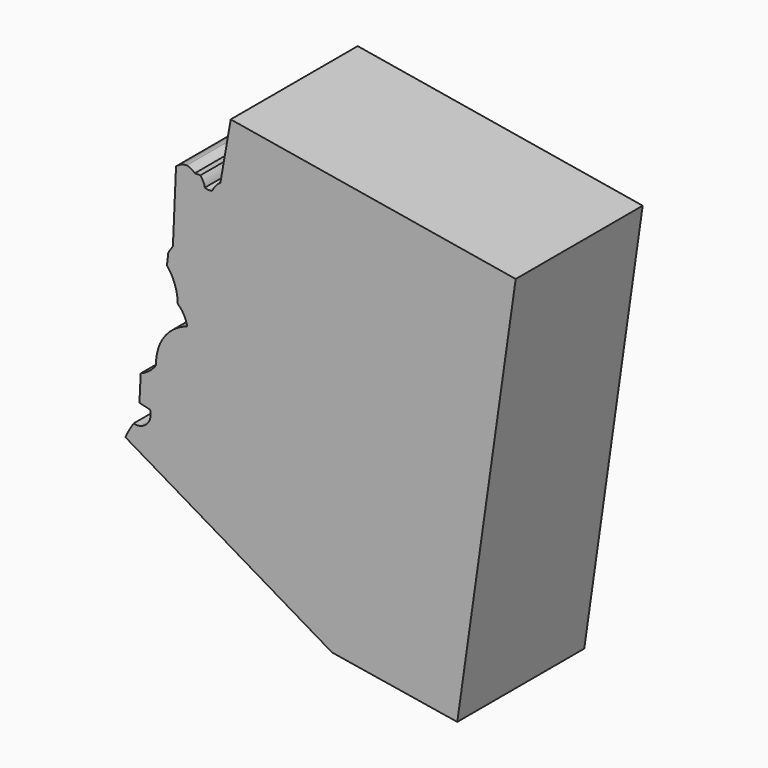
from build123d import *

# Parameters (mm, degrees)
F1_DEPTH = 5.324293


with BuildPart() as f1:
    # F0 (on Front) → F1 (new body)
    with BuildSketch(Plane.XZ):
        with BuildLine():
            Line((-110.759378, -8.769661), (-108.800112, 4.946442))
            Line((-108.800112, 4.946442), (-118.358405, 6.550849))
            Line((-118.358405, 6.550849), (-118.704499, 4.567675))
            ThreePointArc((-118.704499, 4.567675), (-118.865408, 4.423281), (-118.979518, 4.23965))
            ThreePointArc((-118.979518, 4.23965), (-119.102923, 4.224483), (-119.223399, 4.255217))
            ThreePointArc((-119.223399, 4.255217), (-119.282229, 4.419926), (-119.375827, 4.567675))
            ThreePointArc((-119.375827, 4.567675), (-119.46964, 4.568425), (-119.563453, 4.567675))
            ThreePointArc((-119.563453, 4.567675), (-119.687092, 4.659083), (-119.82962, 4.71677))
            ThreePointArc((-119.82962, 4.71677), (-120.023979, 4.673299), (-120.192824, 4.567675))
            Line((-120.192824, 4.567675), (-120.297239, 2.172178))
            Line((-120.297239, 2.172178), (-120.452011, 1.943382))
            Line((-120.452011, 1.943382), (-120.496258, 1.546196))
            ThreePointArc((-120.496258, 1.546196), (-120.231207, 1.068091), (-120.135802, 0.529822))
            ThreePointArc((-120.135802, 0.529822), (-119.92883, 0.271763), (-119.81685, -0.039511))
            ThreePointArc((-119.81685, -0.039511), (-120.59162, -0.60198), (-120.858837, -1.521347))
            ThreePointArc((-120.858837, -1.521347), (-121.087131, -1.76498), (-121.376835, -1.930951))
            Line((-121.376835, -1.930951), (-121.420184, -2.814202))
            Line((-121.420184, -2.814202), (-121.062546, -2.900902))
            ThreePointArc((-121.062546, -2.900902), (-121.169286, -3.356108), (-121.618008, -3.487466))
            ThreePointArc((-121.618008, -3.487466), (-121.764807, -3.729517), (-121.893566, -3.981626))
            Line((-121.893566, -3.981626), (-114.958125, -8.085006))
            Line((-114.958125, -8.085006), (-110.759378, -8.769661))
        make_face()
    extrude(amount=F1_DEPTH)


solid = f1.part
